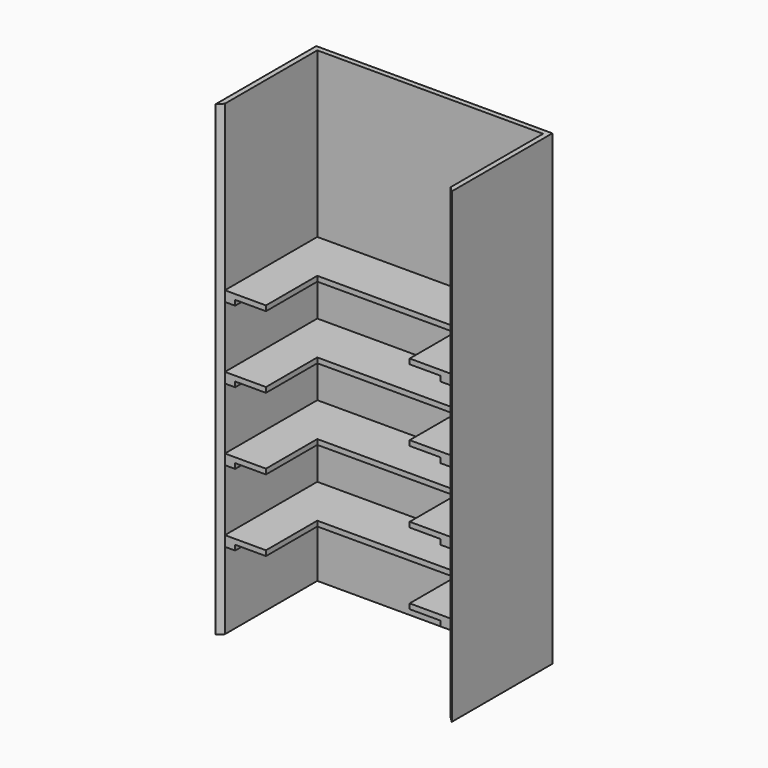
from build123d import *

# Parameters (mm, degrees)
F1_DEPTH  = 2311.4
F3_DEPTH  = 2311.4
F4_DEPTH  = 2311.4
F2_W      = 1117.6
F2_H      = 25.4
F9_DEPTH  = 50.8
F7_W      = 571.5
F7_H      = 25.4
F10_DEPTH = 50.8
F8_W      = 571.5
F8_H      = 25.4
F11_DEPTH = 50.8
F12_W     = 571.5
F12_H     = 25.4
F13_DEPTH = 203.2
F14_W     = 571.5
F14_H     = 25.4
F15_DEPTH = 203.2
F16_W     = 711.2
F16_H     = 25.4
F17_DEPTH = 254


with BuildPart() as f1:
    # F0 (on Top) → F1 (new body)
    with BuildSketch(Plane.XY):
        Polygon((-558.8, 285.75), (558.8, 285.75), (584.2, 311.15), (-584.2, 311.15), align=None)
    extrude(amount=F1_DEPTH)

    # F0 (on Top) → F3 (join)
    with BuildSketch(Plane.XY):
        Polygon((-558.8, -285.75), (-558.8, 285.75), (-584.2, 311.15), (-584.2, -311.15), align=None)
    extrude(amount=F3_DEPTH)

    # F0 (on Top) → F4 (join)
    with BuildSketch(Plane.XY):
        Polygon((558.8, 285.75), (558.8, -285.75), (584.2, -311.15), (584.2, 311.15), align=None)
    extrude(amount=F4_DEPTH)

    # F2 (on face) → F9 (join)
    with BuildSketch(Plane.XZ.offset(-285.75)):
        with Locations((0, 393.7)):
            Rectangle(F2_W, F2_H)
        with Locations((0, 749.3)):
            Rectangle(F2_W, F2_H)
        with Locations((0, 1104.9)):
            Rectangle(F2_W, F2_H)
        with Locations((0, 1460.5)):
            Rectangle(F2_W, F2_H)
    extrude(amount=F9_DEPTH)

    # F7 (on face) → F10 (join)
    with BuildSketch(Plane.YZ.offset(-558.8)):
        with Locations((0, 1460.5)):
            Rectangle(F7_W, F7_H)
        with Locations((0, 1104.9)):
            Rectangle(F7_W, F7_H)
        with Locations((0, 749.3)):
            Rectangle(F7_W, F7_H)
        with Locations((0, 393.7)):
            Rectangle(F7_W, F7_H)
    extrude(amount=F10_DEPTH)

    # F8 (on face) → F11 (join)
    with BuildSketch(Plane(origin=(558.8, 0, 0), x_dir=(0, -1, 0), z_dir=(-1, 0, 0))):
        with Locations((0, 393.7)):
            Rectangle(F8_W, F8_H)
        with Locations((0, 749.3)):
            Rectangle(F8_W, F8_H)
        with Locations((0, 1104.9)):
            Rectangle(F8_W, F8_H)
        with Locations((0, 1460.5)):
            Rectangle(F8_W, F8_H)
    extrude(amount=F11_DEPTH)

    # F12 (on face) → F13 (join)
    with BuildSketch(Plane.YZ.offset(-558.8)):
        with Locations((0, 419.1)):
            Rectangle(F12_W, F12_H)
        with Locations((0, 774.7)):
            Rectangle(F12_W, F12_H)
        Polygon((234.95, 1117.6), (285.75, 1117.6), (285.75, 1143), (-285.75, 1143), (-285.75, 1117.6), align=None)
        with Locations((0, 1485.9)):
            Rectangle(F12_W, F12_H)
    extrude(amount=F13_DEPTH)

    # F14 (on face) → F15 (join)
    with BuildSketch(Plane(origin=(558.8, 0, 0), x_dir=(0, -1, 0), z_dir=(-1, 0, 0))):
        with Locations((0, 1485.9)):
            Rectangle(F14_W, F14_H)
        with Locations((0, 774.7)):
            Rectangle(F14_W, F14_H)
        with Locations((0, 419.1)):
            Rectangle(F14_W, F14_H)
        with Locations((0, 1130.3)):
            Rectangle(F14_W, F14_H)
    extrude(amount=F15_DEPTH)

    # F16 (on face) → F17 (join)
    with BuildSketch(Plane.XZ.offset(-285.75)):
        with Locations((0, 419.1)):
            Rectangle(F16_W, F16_H)
        with Locations((0, 1485.9)):
            Rectangle(F16_W, F16_H)
        with Locations((0, 774.7)):
            Rectangle(F16_W, F16_H)
        with Locations((0, 1130.3)):
            Rectangle(F16_W, F16_H)
    extrude(amount=F17_DEPTH)


solid = f1.part
